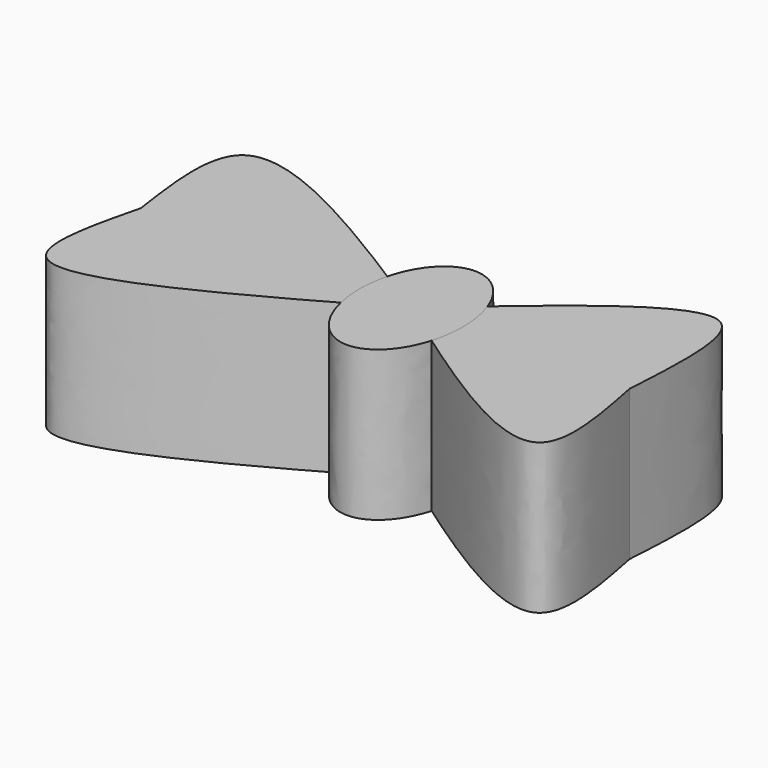
from build123d import *

# Parameters (mm, degrees)
F2_DEPTH = 25.4
F3_DEPTH = 25.4


with BuildPart() as f2:
    # F1 (on Top) → F2 (new body)
    with BuildSketch(Plane.XY):
        with BuildLine():
            add(Edge.make_bspline(
                [(0, 0), (-20.3213992712, -11.5183919846), (-53.1874333933, -30.1472205878), (-47.8130060192, -8.3281282262), (-45.761641115, 0)],
                knots=[0, 0, 0, 0, 0.6183100521, 1, 1, 1, 1], degree=3))
            add(Edge.make_bspline(
                [(0, 0), (-19.0179586188, 12.1229117989), (-50.3876008976, 32.1193485422), (-47.0685180367, 9.0740164905), (-45.761641115, 0)],
                knots=[0, 0, 0, 0, 0.6062536018, 1, 1, 1, 1], degree=3))
        make_face()
    extrude(amount=F2_DEPTH)


with BuildPart() as f2b:
    # F1 (on Top) → F2, piece 2 (new body)
    with BuildSketch(Plane.XY):
        with BuildLine():
            add(Edge.make_bspline(
                [(0, 0), (14.2496612162, 12.5752232906), (39.1323712598, 34.5340355124), (37.650585655, 10.3391310641), (37.0173789561, 0)],
                knots=[0, 0, 0, 0, 0.5726732012, 1, 1, 1, 1], degree=3))
            add(Edge.make_bspline(
                [(0, 0), (16.0004300417, -11.3446941278), (42.9623188079, -30.4613291408), (38.7357191638, -8.8046183727), (37.0173789561, 0)],
                knots=[0, 0, 0, 0, 0.5934461855, 1, 1, 1, 1], degree=3))
        make_face()
    extrude(amount=F2_DEPTH)


with BuildPart() as f2c:
    # F0 (on Top) → F2, piece 3 (new body)
    with BuildSketch(Plane.XY):
        with BuildLine():
            add(Edge.make_bspline(
                [(0, -13.5536063462), (15.1463835871, -13.5536063462), (7.5731917935, 6.7768031731), (0, 27.1072126925), (-7.5731917935, 6.7768031731), (-15.1463835871, -13.5536063462), (0, -13.5536063462)],
                knots=[0, 0, 0, 2.0943951024, 2.0943951024, 4.1887902048, 4.1887902048, 6.2831853072, 6.2831853072, 6.2831853072], degree=2, weights=[1, 0.5, 1, 0.5, 1, 0.5, 1]))
        make_face()
    extrude(amount=F2_DEPTH)


with BuildPart() as f3:
    # F0 (on Top) → F3 (new body)
    with BuildSketch(Plane.XY):
        with BuildLine():
            add(Edge.make_bspline(
                [(0, -13.5536063462), (15.1463835871, -13.5536063462), (7.5731917935, 6.7768031731), (0, 27.1072126925), (-7.5731917935, 6.7768031731), (-15.1463835871, -13.5536063462), (0, -13.5536063462)],
                knots=[0, 0, 0, 2.0943951024, 2.0943951024, 4.1887902048, 4.1887902048, 6.2831853072, 6.2831853072, 6.2831853072], degree=2, weights=[1, 0.5, 1, 0.5, 1, 0.5, 1]))
        make_face()
    extrude(amount=F3_DEPTH)


solid = Compound([f2.part, f2b.part, f2c.part, f3.part])
